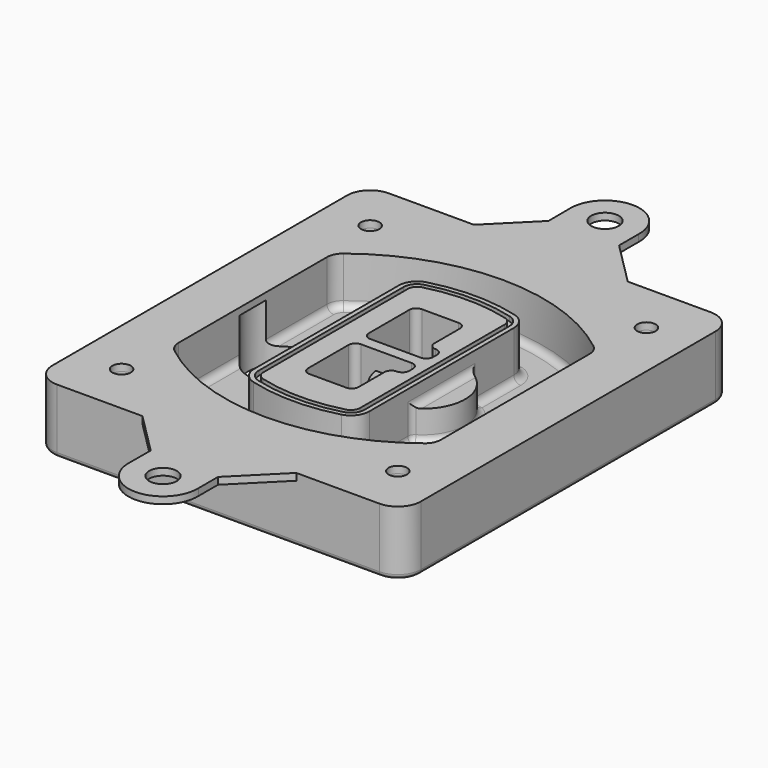
from build123d import *

# Parameters (mm, degrees)
F0_R      = 4
F1_DEPTH  = 25
F2_DEPTH  = 3
F3_DEPTH  = 18
F5_DEPTH  = 21
F6_DEPTH  = 2
F8_DEPTH  = 20
F9_DEPTH  = 16
F10_DEPTH = 25
F7_R      = 6
F7_R_2    = 4
F11_DEPTH = 6
F13_DEPTH = 9
F14_R     = 3
F15_R     = 2
F16_R     = 6
F16_R_2   = 4
F17_DEPTH = 3


with BuildPart() as f1:
    # F0 (on Top) → F1 (new body)
    with BuildSketch(Plane.XY):
        with BuildLine():
            ThreePointArc((-80, -80), (-77.0710678119, -87.0710678119), (-70, -90))
            Line((-70, -90), (70, -90))
            ThreePointArc((70, -90), (77.0710678119, -87.0710678119), (80, -80))
            Line((80, -80), (80, 80))
            ThreePointArc((80, 80), (77.0710678119, 87.0710678119), (70, 90))
            Line((70, 90), (-70, 90))
            ThreePointArc((-70, 90), (-77.0710678119, 87.0710678119), (-80, 80))
            Line((-80, 80), (-80, -80))
        make_face()
        with Locations((-60, -67.5)):
            Circle(F0_R, mode=Mode.SUBTRACT)
        with Locations((60, -67.5)):
            Circle(F0_R, mode=Mode.SUBTRACT)
        with Locations((-60, 67.5)):
            Circle(F0_R, mode=Mode.SUBTRACT)
        with BuildLine():
            ThreePointArc((-64, 40.2934422872), (-62.5820384798, 46.4328484224), (-58.6153846154, 51.3286200352))
            ThreePointArc((-58.6153846154, 51.3286200352), (0, 71.5), (58.6153846154, 51.3286200352))
            ThreePointArc((58.6153846154, 51.3286200352), (62.5820384798, 46.4328484224), (64, 40.2934422872))
            Line((64, 40.2934422872), (64, -40.2934422872))
            ThreePointArc((64, -40.2934422872), (62.5820384798, -46.4328484224), (58.6153846154, -51.3286200352))
            ThreePointArc((58.6153846154, -51.3286200352), (0, -71.5), (-58.6153846154, -51.3286200352))
            ThreePointArc((-58.6153846154, -51.3286200352), (-62.5820384798, -46.4328484224), (-64, -40.2934422872))
            Line((-64, -40.2934422872), (-64, 40.2934422872))
        make_face(mode=Mode.SUBTRACT)
        with Locations((60, 67.5)):
            Circle(F0_R, mode=Mode.SUBTRACT)
        with BuildLine():
            ThreePointArc((58.6153846154, 51.3286200352), (0, 71.5), (-58.6153846154, 51.3286200352))
            ThreePointArc((-58.6153846154, 51.3286200352), (-62.5820384798, 46.4328484224), (-64, 40.2934422872))
            Line((-64, 40.2934422872), (-64, -40.2934422872))
            ThreePointArc((-64, -40.2934422872), (-62.5820384798, -46.4328484224), (-58.6153846154, -51.3286200352))
            ThreePointArc((-58.6153846154, -51.3286200352), (0, -71.5), (58.6153846154, -51.3286200352))
            ThreePointArc((58.6153846154, -51.3286200352), (62.5820384798, -46.4328484224), (64, -40.2934422872))
            Line((64, -40.2934422872), (64, 40.2934422872))
            ThreePointArc((64, 40.2934422872), (62.5820384798, 46.4328484224), (58.6153846154, 51.3286200352))
        make_face()
        with BuildLine():
            Line((-60, -40.2934422872), (-60, 40.2934422872))
            ThreePointArc((-60, 40.2934422872), (-58.9871703427, 44.6787323838), (-56.1538461538, 48.1757121072))
            ThreePointArc((-56.1538461538, 48.1757121072), (0, 67.5), (56.1538461538, 48.1757121072))
            ThreePointArc((56.1538461538, 48.1757121072), (58.9871703427, 44.6787323838), (60, 40.2934422872))
            Line((60, 40.2934422872), (60, -40.2934422872))
            ThreePointArc((60, -40.2934422872), (58.9871703427, -44.6787323838), (56.1538461538, -48.1757121072))
            ThreePointArc((56.1538461538, -48.1757121072), (0, -67.5), (-56.1538461538, -48.1757121072))
            ThreePointArc((-56.1538461538, -48.1757121072), (-58.9871703427, -44.6787323838), (-60, -40.2934422872))
        make_face(mode=Mode.SUBTRACT)
        with BuildLine():
            ThreePointArc((-56.1538461538, 48.1757121072), (-58.9871703427, 44.6787323838), (-60, 40.2934422872))
            Line((-60, 40.2934422872), (-60, -40.2934422872))
            ThreePointArc((-60, -40.2934422872), (-58.9871703427, -44.6787323838), (-56.1538461538, -48.1757121072))
            ThreePointArc((-56.1538461538, -48.1757121072), (0, -67.5), (56.1538461538, -48.1757121072))
            ThreePointArc((56.1538461538, -48.1757121072), (58.9871703427, -44.6787323838), (60, -40.2934422872))
            Line((60, -40.2934422872), (60, 40.2934422872))
            ThreePointArc((60, 40.2934422872), (58.9871703427, 44.6787323838), (56.1538461538, 48.1757121072))
            ThreePointArc((56.1538461538, 48.1757121072), (0, 67.5), (-56.1538461538, 48.1757121072))
        make_face()
        with BuildLine():
            ThreePointArc((54.3076923077, 45.8110311612), (56.2910192399, 43.3631453548), (57, 40.2934422872))
            Line((57, 40.2934422872), (57, -40.2934422872))
            ThreePointArc((57, -40.2934422872), (56.2910192399, -43.3631453548), (54.3076923077, -45.8110311612))
            ThreePointArc((54.3076923077, -45.8110311612), (0, -64.5), (-54.3076923077, -45.8110311612))
            ThreePointArc((-54.3076923077, -45.8110311612), (-56.2910192399, -43.3631453548), (-57, -40.2934422872))
            Line((-57, -40.2934422872), (-57, 40.2934422872))
            ThreePointArc((-57, 40.2934422872), (-56.2910192399, 43.3631453548), (-54.3076923077, 45.8110311612))
            ThreePointArc((-54.3076923077, 45.8110311612), (0, 64.5), (54.3076923077, 45.8110311612))
        make_face(mode=Mode.SUBTRACT)
        with BuildLine():
            Line((57, -40.2934422872), (57, 40.2934422872))
            ThreePointArc((57, 40.2934422872), (56.2910192399, 43.3631453548), (54.3076923077, 45.8110311612))
            ThreePointArc((54.3076923077, 45.8110311612), (0, 64.5), (-54.3076923077, 45.8110311612))
            ThreePointArc((-54.3076923077, 45.8110311612), (-56.2910192399, 43.3631453548), (-57, 40.2934422872))
            Line((-57, 40.2934422872), (-57, -40.2934422872))
            ThreePointArc((-57, -40.2934422872), (-56.2910192399, -43.3631453548), (-54.3076923077, -45.8110311612))
            ThreePointArc((-54.3076923077, -45.8110311612), (0, -64.5), (54.3076923077, -45.8110311612))
            ThreePointArc((54.3076923077, -45.8110311612), (56.2910192399, -43.3631453548), (57, -40.2934422872))
        make_face()
    extrude(amount=-F1_DEPTH)

    # F0 (on Top) → F2 (join)
    with BuildSketch(Plane.XY):
        with BuildLine():
            ThreePointArc((-56.1538461538, 48.1757121072), (-58.9871703427, 44.6787323838), (-60, 40.2934422872))
            Line((-60, 40.2934422872), (-60, -40.2934422872))
            ThreePointArc((-60, -40.2934422872), (-58.9871703427, -44.6787323838), (-56.1538461538, -48.1757121072))
            ThreePointArc((-56.1538461538, -48.1757121072), (0, -67.5), (56.1538461538, -48.1757121072))
            ThreePointArc((56.1538461538, -48.1757121072), (58.9871703427, -44.6787323838), (60, -40.2934422872))
            Line((60, -40.2934422872), (60, 40.2934422872))
            ThreePointArc((60, 40.2934422872), (58.9871703427, 44.6787323838), (56.1538461538, 48.1757121072))
            ThreePointArc((56.1538461538, 48.1757121072), (0, 67.5), (-56.1538461538, 48.1757121072))
        make_face()
        with BuildLine():
            ThreePointArc((54.3076923077, 45.8110311612), (56.2910192399, 43.3631453548), (57, 40.2934422872))
            Line((57, 40.2934422872), (57, -40.2934422872))
            ThreePointArc((57, -40.2934422872), (56.2910192399, -43.3631453548), (54.3076923077, -45.8110311612))
            ThreePointArc((54.3076923077, -45.8110311612), (0, -64.5), (-54.3076923077, -45.8110311612))
            ThreePointArc((-54.3076923077, -45.8110311612), (-56.2910192399, -43.3631453548), (-57, -40.2934422872))
            Line((-57, -40.2934422872), (-57, 40.2934422872))
            ThreePointArc((-57, 40.2934422872), (-56.2910192399, 43.3631453548), (-54.3076923077, 45.8110311612))
            ThreePointArc((-54.3076923077, 45.8110311612), (0, 64.5), (54.3076923077, 45.8110311612))
        make_face(mode=Mode.SUBTRACT)
    extrude(amount=F2_DEPTH)

    # F0 (on Top) → F3 (cut)
    with BuildSketch(Plane.XY):
        with BuildLine():
            Line((57, -40.2934422872), (57, 40.2934422872))
            ThreePointArc((57, 40.2934422872), (56.2910192399, 43.3631453548), (54.3076923077, 45.8110311612))
            ThreePointArc((54.3076923077, 45.8110311612), (0, 64.5), (-54.3076923077, 45.8110311612))
            ThreePointArc((-54.3076923077, 45.8110311612), (-56.2910192399, 43.3631453548), (-57, 40.2934422872))
            Line((-57, 40.2934422872), (-57, -40.2934422872))
            ThreePointArc((-57, -40.2934422872), (-56.2910192399, -43.3631453548), (-54.3076923077, -45.8110311612))
            ThreePointArc((-54.3076923077, -45.8110311612), (0, -64.5), (54.3076923077, -45.8110311612))
            ThreePointArc((54.3076923077, -45.8110311612), (56.2910192399, -43.3631453548), (57, -40.2934422872))
        make_face()
    extrude(amount=-F3_DEPTH, mode=Mode.SUBTRACT)

    # F4 (on face) → F5 (join, through all)
    with BuildSketch(Plane.XY.offset(3)):
        with BuildLine():
            ThreePointArc((-25, -39.2465276821), (-23.3511545998, -44.1109737193), (-19.0842911877, -46.9702398883))
            ThreePointArc((-19.0842911877, -46.9702398883), (0, -49.5), (19.0842911877, -46.9702398883))
            ThreePointArc((19.0842911877, -46.9702398883), (23.3511545998, -44.1109737193), (25, -39.2465276821))
            Line((25, -39.2465276821), (25, 39.2465276821))
            ThreePointArc((25, 39.2465276821), (23.3511545998, 44.1109737193), (19.0842911877, 46.9702398883))
            ThreePointArc((19.0842911877, 46.9702398883), (0, 49.5), (-19.0842911877, 46.9702398883))
            ThreePointArc((-19.0842911877, 46.9702398883), (-23.3511545998, 44.1109737193), (-25, 39.2465276821))
            Line((-25, 39.2465276821), (-25, -39.2465276821))
        make_face()
        with BuildLine():
            ThreePointArc((18.5632183908, 45.0393118368), (21.7633659499, 42.89486221), (23, 39.2465276821))
            Line((23, 39.2465276821), (23, -39.2465276821))
            ThreePointArc((23, -39.2465276821), (21.7633659499, -42.89486221), (18.5632183908, -45.0393118368))
            ThreePointArc((18.5632183908, -45.0393118368), (0, -47.5), (-18.5632183908, -45.0393118368))
            ThreePointArc((-18.5632183908, -45.0393118368), (-21.7633659499, -42.89486221), (-23, -39.2465276821))
            Line((-23, -39.2465276821), (-23, 39.2465276821))
            ThreePointArc((-23, 39.2465276821), (-21.7633659499, 42.89486221), (-18.5632183908, 45.0393118368))
            ThreePointArc((-18.5632183908, 45.0393118368), (0, 47.5), (18.5632183908, 45.0393118368))
        make_face(mode=Mode.SUBTRACT)
        with BuildLine():
            Line((23, -39.2465276821), (23, 39.2465276821))
            ThreePointArc((23, 39.2465276821), (21.7633659499, 42.89486221), (18.5632183908, 45.0393118368))
            ThreePointArc((18.5632183908, 45.0393118368), (0, 47.5), (-18.5632183908, 45.0393118368))
            ThreePointArc((-18.5632183908, 45.0393118368), (-21.7633659499, 42.89486221), (-23, 39.2465276821))
            Line((-23, 39.2465276821), (-23, -39.2465276821))
            ThreePointArc((-23, -39.2465276821), (-21.7633659499, -42.89486221), (-18.5632183908, -45.0393118368))
            ThreePointArc((-18.5632183908, -45.0393118368), (0, -47.5), (18.5632183908, -45.0393118368))
            ThreePointArc((18.5632183908, -45.0393118368), (21.7633659499, -42.89486221), (23, -39.2465276821))
        make_face()
        with BuildLine():
            ThreePointArc((18.0421455939, 43.1083837852), (20.1755772999, 41.6787507007), (21, 39.2465276821))
            Line((21, 39.2465276821), (21, -39.2465276821))
            ThreePointArc((21, -39.2465276821), (20.1755772999, -41.6787507007), (18.0421455939, -43.1083837852))
            ThreePointArc((18.0421455939, -43.1083837852), (0, -45.5), (-18.0421455939, -43.1083837852))
            ThreePointArc((-18.0421455939, -43.1083837852), (-20.1755772999, -41.6787507007), (-21, -39.2465276821))
            Line((-21, -39.2465276821), (-21, 39.2465276821))
            ThreePointArc((-21, 39.2465276821), (-20.1755772999, 41.6787507007), (-18.0421455939, 43.1083837852))
            ThreePointArc((-18.0421455939, 43.1083837852), (0, 45.5), (18.0421455939, 43.1083837852))
        make_face(mode=Mode.SUBTRACT)
        with BuildLine():
            Line((21, -39.2465276821), (21, 39.2465276821))
            ThreePointArc((21, 39.2465276821), (20.1755772999, 41.6787507007), (18.0421455939, 43.1083837852))
            ThreePointArc((18.0421455939, 43.1083837852), (0, 45.5), (-18.0421455939, 43.1083837852))
            ThreePointArc((-18.0421455939, 43.1083837852), (-20.1755772999, 41.6787507007), (-21, 39.2465276821))
            Line((-21, 39.2465276821), (-21, -39.2465276821))
            ThreePointArc((-21, -39.2465276821), (-20.1755772999, -41.6787507007), (-18.0421455939, -43.1083837852))
            ThreePointArc((-18.0421455939, -43.1083837852), (0, -45.5), (18.0421455939, -43.1083837852))
            ThreePointArc((18.0421455939, -43.1083837852), (20.1755772999, -41.6787507007), (21, -39.2465276821))
        make_face()
        with BuildLine():
            Line((-8, -2.5), (14, -2.5))
            ThreePointArc((14, -2.5), (16.1213203436, -3.3786796564), (17, -5.5))
            Line((17, -5.5), (17, -7.5))
            ThreePointArc((17, -7.5), (16.1213203436, -9.6213203436), (14, -10.5))
            ThreePointArc((14, -10.5), (11.8786796564, -11.3786796564), (11, -13.5))
            Line((11, -13.5), (11, -27.5))
            ThreePointArc((11, -27.5), (10.1213203436, -29.6213203436), (8, -30.5))
            Line((8, -30.5), (-8, -30.5))
            ThreePointArc((-8, -30.5), (-10.1213203436, -29.6213203436), (-11, -27.5))
            Line((-11, -27.5), (-11, -5.5))
            ThreePointArc((-11, -5.5), (-10.1213203436, -3.3786796564), (-8, -2.5))
        make_face(mode=Mode.SUBTRACT)
        with BuildLine():
            ThreePointArc((-8, 2.5), (-10.1213203436, 3.3786796564), (-11, 5.5))
            Line((-11, 5.5), (-11, 27.5))
            ThreePointArc((-11, 27.5), (-10.1213203436, 29.6213203436), (-8, 30.5))
            Line((-8, 30.5), (8, 30.5))
            ThreePointArc((8, 30.5), (10.1213203436, 29.6213203436), (11, 27.5))
            Line((11, 27.5), (11, 13.5))
            ThreePointArc((11, 13.5), (11.8786796564, 11.3786796564), (14, 10.5))
            ThreePointArc((14, 10.5), (16.1213203436, 9.6213203436), (17, 7.5))
            Line((17, 7.5), (17, 5.5))
            ThreePointArc((17, 5.5), (16.1213203436, 3.3786796564), (14, 2.5))
            Line((14, 2.5), (-8, 2.5))
        make_face(mode=Mode.SUBTRACT)
    extrude(amount=-F5_DEPTH)

    # F4 (on face) → F6 (cut)
    with BuildSketch(Plane.XY.offset(3)):
        with BuildLine():
            Line((23, -39.2465276821), (23, 39.2465276821))
            ThreePointArc((23, 39.2465276821), (21.7633659499, 42.89486221), (18.5632183908, 45.0393118368))
            ThreePointArc((18.5632183908, 45.0393118368), (0, 47.5), (-18.5632183908, 45.0393118368))
            ThreePointArc((-18.5632183908, 45.0393118368), (-21.7633659499, 42.89486221), (-23, 39.2465276821))
            Line((-23, 39.2465276821), (-23, -39.2465276821))
            ThreePointArc((-23, -39.2465276821), (-21.7633659499, -42.89486221), (-18.5632183908, -45.0393118368))
            ThreePointArc((-18.5632183908, -45.0393118368), (0, -47.5), (18.5632183908, -45.0393118368))
            ThreePointArc((18.5632183908, -45.0393118368), (21.7633659499, -42.89486221), (23, -39.2465276821))
        make_face()
        with BuildLine():
            ThreePointArc((18.0421455939, 43.1083837852), (20.1755772999, 41.6787507007), (21, 39.2465276821))
            Line((21, 39.2465276821), (21, -39.2465276821))
            ThreePointArc((21, -39.2465276821), (20.1755772999, -41.6787507007), (18.0421455939, -43.1083837852))
            ThreePointArc((18.0421455939, -43.1083837852), (0, -45.5), (-18.0421455939, -43.1083837852))
            ThreePointArc((-18.0421455939, -43.1083837852), (-20.1755772999, -41.6787507007), (-21, -39.2465276821))
            Line((-21, -39.2465276821), (-21, 39.2465276821))
            ThreePointArc((-21, 39.2465276821), (-20.1755772999, 41.6787507007), (-18.0421455939, 43.1083837852))
            ThreePointArc((-18.0421455939, 43.1083837852), (0, 45.5), (18.0421455939, 43.1083837852))
        make_face(mode=Mode.SUBTRACT)
    extrude(amount=-F6_DEPTH, mode=Mode.SUBTRACT)

    # F7 (on face) → F8 (join)
    with BuildSketch(Plane(origin=(0, 0, -25), x_dir=(1, 0, 0), z_dir=(0, 0, -1))):
        with BuildLine():
            ThreePointArc((3.28842436, 0), (16.7567035675, 13.4682792075), (30.224982775, 0))
            Line((30.224982775, 0), (35.224982775, 0))
            ThreePointArc((35.224982775, 0), (16.7567035675, 18.4682792075), (-1.71157564, 0))
            Line((-1.71157564, 0), (3.28842436, 0))
        make_face()
        with BuildLine():
            Line((3.28842436, 0), (30.224982775, 0))
            ThreePointArc((30.224982775, 0), (16.7567035675, 13.4682792075), (3.28842436, 0))
        make_face()
        with BuildLine():
            ThreePointArc((3.28842436, 0), (16.7567035675, -13.4682792075), (30.224982775, 0))
            Line((30.224982775, 0), (3.28842436, 0))
        make_face()
        with BuildLine():
            Line((35.224982775, 0), (30.224982775, 0))
            ThreePointArc((30.224982775, 0), (16.7567035675, -13.4682792075), (3.28842436, 0))
            Line((3.28842436, 0), (-1.71157564, 0))
            ThreePointArc((-1.71157564, 0), (16.7567035675, -18.4682792075), (35.224982775, 0))
        make_face()
    extrude(amount=-F8_DEPTH)

    # F7 (on face) → F9 (cut)
    with BuildSketch(Plane(origin=(0, 0, -25), x_dir=(1, 0, 0), z_dir=(0, 0, -1))):
        with BuildLine():
            Line((3.28842436, 0), (30.224982775, 0))
            ThreePointArc((30.224982775, 0), (16.7567035675, 13.4682792075), (3.28842436, 0))
        make_face()
        with BuildLine():
            ThreePointArc((3.28842436, 0), (16.7567035675, -13.4682792075), (30.224982775, 0))
            Line((30.224982775, 0), (3.28842436, 0))
        make_face()
    extrude(amount=-F9_DEPTH, mode=Mode.SUBTRACT)

    # F7 (on face) → F10 (cut)
    with BuildSketch(Plane(origin=(0, 0, -25), x_dir=(1, 0, 0), z_dir=(0, 0, -1))):
        with BuildLine():
            Line((-59.0318229325, 0), (-32.0952645175, 0))
            ThreePointArc((-32.0952645175, 0), (-45.563543725, 13.4682792075), (-59.0318229325, 0))
        make_face()
        with BuildLine():
            ThreePointArc((-59.0318229325, 0), (-45.563543725, -13.4682792075), (-32.0952645175, 0))
            Line((-32.0952645175, 0), (-59.0318229325, 0))
        make_face()
    extrude(amount=-F10_DEPTH, mode=Mode.SUBTRACT)

    # F7 (on face) → F11 (cut)
    with BuildSketch(Plane(origin=(0, 0, -25), x_dir=(1, 0, 0), z_dir=(0, 0, -1))):
        with Locations((60, -67.5)):
            Circle(F7_R)
        with Locations((60, -67.5)):
            Circle(F7_R_2, mode=Mode.SUBTRACT)
        with Locations((60, -67.5)):
            Circle(F7_R)
        with Locations((60, -67.5)):
            Circle(F7_R_2, mode=Mode.SUBTRACT)
        with Locations((-60, -67.5)):
            Circle(F7_R)
        with Locations((-60, -67.5)):
            Circle(F7_R_2, mode=Mode.SUBTRACT)
        with Locations((-60, -67.5)):
            Circle(F7_R)
        with Locations((-60, -67.5)):
            Circle(F7_R_2, mode=Mode.SUBTRACT)
        with Locations((-60, 67.5)):
            Circle(F7_R)
        with Locations((-60, 67.5)):
            Circle(F7_R_2, mode=Mode.SUBTRACT)
        with Locations((-60, 67.5)):
            Circle(F7_R)
        with Locations((-60, 67.5)):
            Circle(F7_R_2, mode=Mode.SUBTRACT)
        with Locations((60, 67.5)):
            Circle(F7_R)
        with Locations((60, 67.5)):
            Circle(F7_R_2, mode=Mode.SUBTRACT)
        with Locations((60, 67.5)):
            Circle(F7_R)
        with Locations((60, 67.5)):
            Circle(F7_R_2, mode=Mode.SUBTRACT)
    extrude(amount=-F11_DEPTH, mode=Mode.SUBTRACT)

    # F12 (on face) → F13 (cut, through all)
    with BuildSketch(Plane(origin=(0, 0, -9), x_dir=(1, 0, 0), z_dir=(0, 0, -1))):
        with BuildLine():
            Line((11, 13.5), (11, 17.5481537753))
            ThreePointArc((11, 17.5481537753), (2.5696536419, 11.8239143813), (-1.5415842455, 2.5))
            Line((-1.5415842455, 2.5), (3.5224848595, 2.5))
            ThreePointArc((3.5224848595, 2.5), (6.1857188154, 8.3455872281), (11.2536447004, 12.2927168648))
            ThreePointArc((11.2536447004, 12.2927168648), (11.0640958889, 12.8831798879), (11, 13.5))
        make_face()
        with BuildLine():
            ThreePointArc((11.2536447004, -12.2927168648), (6.1857188154, -8.3455872281), (3.5224848595, -2.5))
            Line((3.5224848595, -2.5), (-1.5415842455, -2.5))
            ThreePointArc((-1.5415842455, -2.5), (2.5696536419, -11.8239143813), (11, -17.5481537753))
            Line((11, -17.5481537753), (11, -13.5))
            ThreePointArc((11, -13.5), (11.0640958889, -12.8831798879), (11.2536447004, -12.2927168648))
        make_face()
        with BuildLine():
            ThreePointArc((11.2536447004, 12.2927168648), (6.1857188154, 8.3455872281), (3.5224848595, 2.5))
            Line((3.5224848595, 2.5), (14, 2.5))
            ThreePointArc((14, 2.5), (16.1213203436, 3.3786796564), (17, 5.5))
            Line((17, 5.5), (17, 7.5))
            ThreePointArc((17, 7.5), (16.1213203436, 9.6213203436), (14, 10.5))
            ThreePointArc((14, 10.5), (12.3601599782, 10.9878446101), (11.2536447004, 12.2927168648))
        make_face()
        with BuildLine():
            Line((14, -2.5), (3.5224848595, -2.5))
            ThreePointArc((3.5224848595, -2.5), (6.1857188154, -8.3455872281), (11.2536447004, -12.2927168648))
            ThreePointArc((11.2536447004, -12.2927168648), (12.3601599782, -10.9878446101), (14, -10.5))
            ThreePointArc((14, -10.5), (16.1213203436, -9.6213203436), (17, -7.5))
            Line((17, -7.5), (17, -5.5))
            ThreePointArc((17, -5.5), (16.1213203436, -3.3786796564), (14, -2.5))
        make_face()
    extrude(amount=F13_DEPTH, mode=Mode.SUBTRACT)

    # F14
    f14_edges = [f1.edges().sort_by_distance(p)[0] for p in [
        (-57, -23.703476, -18),
        (-57, 23.703476, -18),
        (25, 0, -5),
        (25, 16.526506, -11.5),
        (25, -16.526506, -11.5),
        (25, -27.886517, -18),
        (35.224983, 0, -18),
    ]]
    fillet(f14_edges, radius=F14_R)

    # F15
    f15_edges = [f1.edges().sort_by_distance(p)[0] for p in [
        (0, -90, -25),
    ]]
    fillet(f15_edges, radius=F15_R)

    # F16 (on face) → F17 (join, through all)
    with BuildSketch(Plane.XY):
        with BuildLine():
            Line((14.9931125789, 108.8939123899), (14.9931125789, 119.5454945596))
            ThreePointArc((14.9931125789, 119.5454945596), (0.1833243468, 134.9988796976), (-14.999742353, 119.9120833082))
            Line((-14.999742353, 119.9120833082), (-14.92992309, 108))
            Line((-14.92992309, 108), (-32.92992309, 90))
            Line((-32.92992309, 90), (33.8870249689, 90))
            Line((33.8870249689, 90), (14.9931125789, 108.8939123899))
        make_face()
        with Locations((0, 120)):
            Circle(F16_R, mode=Mode.SUBTRACT)
        with BuildLine():
            Line((70, 90), (33.8870249689, 90))
            Line((33.8870249689, 90), (-32.92992309, 90))
            Line((-32.92992309, 90), (-70, 90))
            ThreePointArc((-70, 90), (-77.0710678119, 87.0710678119), (-80, 80))
            Line((-80, 80), (-80, -80))
            ThreePointArc((-80, -80), (-77.0710678119, -87.0710678119), (-70, -90))
            Line((-70, -90), (-32.92992309, -90))
            Line((-32.92992309, -90), (33.8870249689, -90))
            Line((33.8870249689, -90), (70, -90))
            ThreePointArc((70, -90), (77.0710678119, -87.0710678119), (80, -80))
            Line((80, -80), (80, 80))
            ThreePointArc((80, 80), (77.0710678119, 87.0710678119), (70, 90))
        make_face()
        with Locations((-60, -67.5)):
            Circle(F16_R_2, mode=Mode.SUBTRACT)
        with Locations((60, -67.5)):
            Circle(F16_R_2, mode=Mode.SUBTRACT)
        with BuildLine():
            ThreePointArc((-60, 40.2934422872), (-58.9871703427, 44.6787323838), (-56.1538461538, 48.1757121072))
            ThreePointArc((-56.1538461538, 48.1757121072), (0, 67.5), (56.1538461538, 48.1757121072))
            ThreePointArc((56.1538461538, 48.1757121072), (58.9871703427, 44.6787323838), (60, 40.2934422872))
            Line((60, 40.2934422872), (60, -40.2934422872))
            ThreePointArc((60, -40.2934422872), (58.9871703427, -44.6787323838), (56.1538461538, -48.1757121072))
            ThreePointArc((56.1538461538, -48.1757121072), (0, -67.5), (-56.1538461538, -48.1757121072))
            ThreePointArc((-56.1538461538, -48.1757121072), (-58.9871703427, -44.6787323838), (-60, -40.2934422872))
            Line((-60, -40.2934422872), (-60, 40.2934422872))
        make_face(mode=Mode.SUBTRACT)
        with Locations((-60, 67.5)):
            Circle(F16_R_2, mode=Mode.SUBTRACT)
        with Locations((60, 67.5)):
            Circle(F16_R_2, mode=Mode.SUBTRACT)
        with BuildLine():
            Line((14.9931125789, -108.8939123899), (33.8870249689, -90))
            Line((33.8870249689, -90), (-32.92992309, -90))
            Line((-32.92992309, -90), (-14.92992309, -108))
            Line((-14.92992309, -108), (-14.999742353, -119.9120833082))
            ThreePointArc((-14.999742353, -119.9120833082), (0.1833243468, -134.9988796976), (14.9931125789, -119.5454945596))
            Line((14.9931125789, -119.5454945596), (14.9931125789, -108.8939123899))
        make_face()
        with Locations((0, -120)):
            Circle(F16_R, mode=Mode.SUBTRACT)
    extrude(amount=F17_DEPTH)


solid = f1.part
